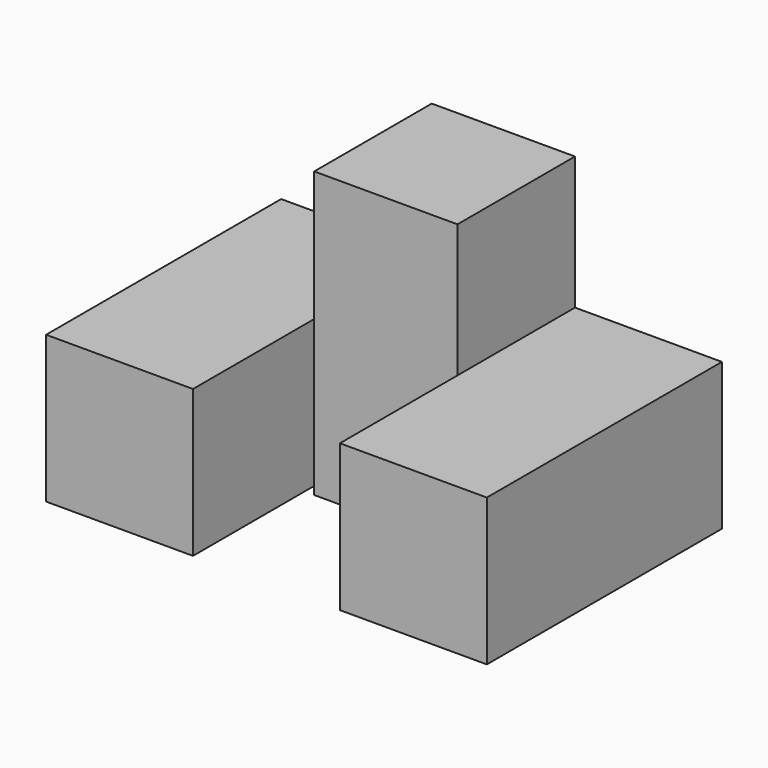
from build123d import *

# Parameters (mm, degrees)
F0_W     = 25.4
F0_H     = 25.4
F1_DEPTH = 50.8
F2_W     = 24.765
F2_H     = 26.261788
F2_H_2   = 22.996072
F3_DEPTH = 25.4


with BuildPart() as f1:
    # F0 (on Front) → F1 (new body)
    with BuildSketch(Plane.XZ):
        with Locations((-38.1, -12.7)):
            Rectangle(F0_W, F0_H)
        with Locations((12.7, -12.7)):
            Rectangle(F0_W, F0_H)
    extrude(amount=F1_DEPTH)

    # F2 (on Front) → F3 (join)
    with BuildSketch(Plane.XZ):
        with Locations((-12.3825, -13.130894)):
            Rectangle(F2_W, F2_H)
        with Locations((-12.3825, 11.498036)):
            Rectangle(F2_W, F2_H_2)
    extrude(amount=F3_DEPTH)


solid = f1.part
